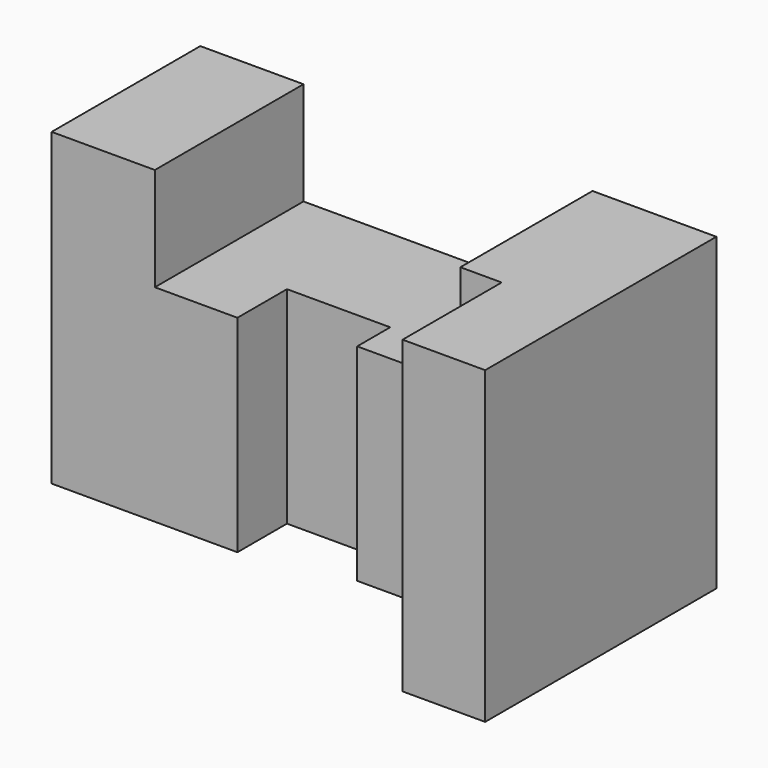
from build123d import *

# Parameters (mm, degrees)
F0_W     = 125
F0_H     = 75
F1_DEPTH = 70
F2_W     = 70
F2_H     = 25
F3_DEPTH = 70.001
F5_DEPTH = 75.001


with BuildPart() as f1:
    # F0 (on Front) → F1 (new body)
    with BuildSketch(Plane.XZ):
        with Locations((62.5, 37.5)):
            Rectangle(F0_W, F0_H)
    extrude(amount=F1_DEPTH)

    # F2 (on face) → F3 (cut, through all)
    with BuildSketch(Plane.XZ.offset(70)):
        with Locations((60, 62.5)):
            Rectangle(F2_W, F2_H)
    extrude(amount=-F3_DEPTH, mode=Mode.SUBTRACT)

    # F4 (on Top) → F5 (cut, through all)
    with BuildSketch(Plane.XY):
        Polygon((105, -118.377747), (105, -70), (105, -40), (70, -40), (70, -30), (45, -30), (45, -45), (0, -45), (0, -118.377747), align=None)
    extrude(amount=F5_DEPTH, mode=Mode.SUBTRACT)


solid = f1.part
